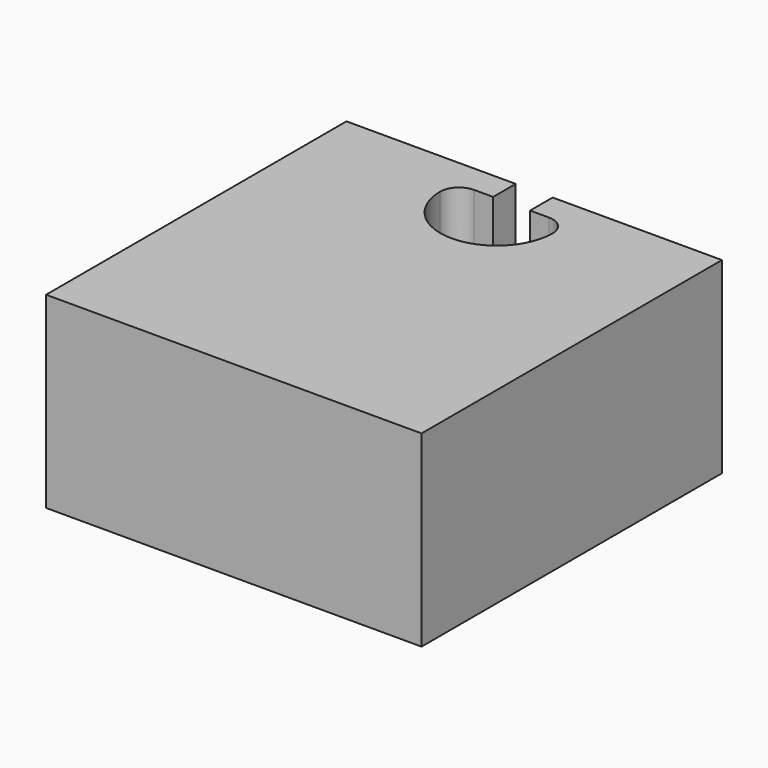
from build123d import *

# Parameters (mm, degrees)
F1_DEPTH = 6.35
F2_R     = 1.27


with BuildPart() as f1:
    # F0 (on Top) → F1 (new body, symmetric)
    with BuildSketch(Plane.XY):
        with BuildLine():
            Line((-12.7, 12.7), (-12.7, -12.7))
            Line((-12.7, -12.7), (12.7, -12.7))
            Line((12.7, -12.7), (12.7, 12.7))
            Line((12.7, 12.7), (1.250322, 12.7))
            Line((1.250322, 12.7), (1.250322, 10.788764))
            Line((1.250322, 10.788764), (3.81, 10.788764))
            Line((3.81, 10.788764), (3.81, 9.525))
            ThreePointArc((3.81, 9.525), (0, 5.715), (-3.81, 9.525))
            Line((-3.81, 9.525), (-3.81, 10.788764))
            Line((-3.81, 10.788764), (-1.250322, 10.788764))
            Line((-1.250322, 10.788764), (-1.250322, 12.7))
            Line((-1.250322, 12.7), (-12.7, 12.7))
        make_face()
    extrude(amount=F1_DEPTH, both=True)

    # F2
    f2_edges = [f1.edges().sort_by_distance(p)[0] for p in [
        (-3.81, 10.788764, 0),
        (3.81, 10.788764, 0),
    ]]
    fillet(f2_edges, radius=F2_R)


solid = f1.part
